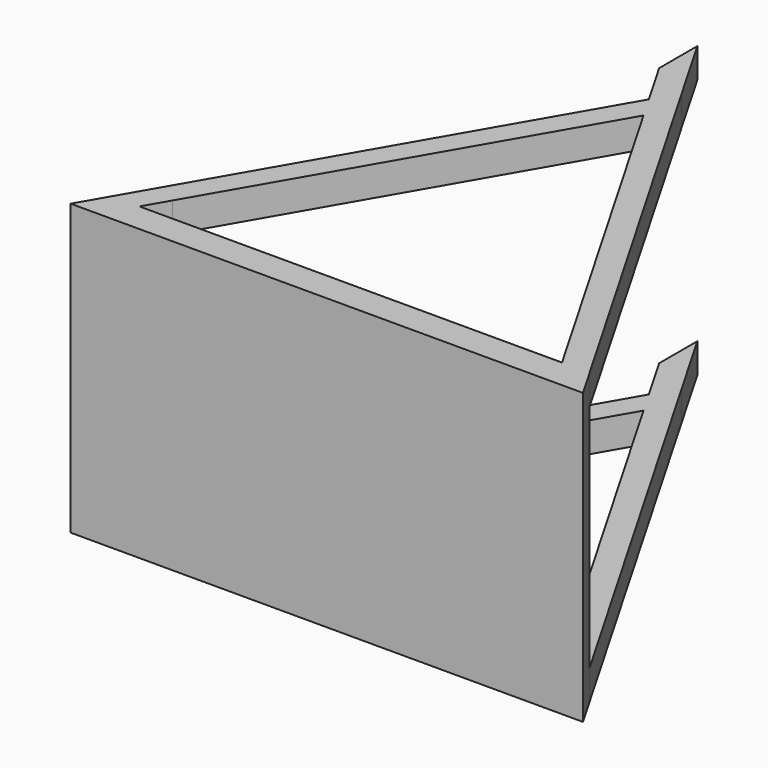
from build123d import *

# Parameters (mm, degrees)
F1_DEPTH = 97
F2_DEPTH = 87
F3_DEPTH = 10


with BuildPart() as f1:
    # F0 (on Top) → F1 (new body)
    with BuildSketch(Plane.XY):
        Polygon((-4.618802, 106.564065), (-80, -24), (-70.762396, -24), (-66.143594, -16), (0, 98.564065), (66.143594, -16), (70.762396, -24), (80, -24), (0, 114.564065), (-13.559861, 138.050432), (-13.559861, 122.050432), align=None)
        Polygon((-70.762396, -24), (-80, -24), (-85.773503, -34), (85.773503, -34), (80, -24), (70.762396, -24), align=None)
    extrude(amount=F1_DEPTH)

    # F0 (on Top) → F2 (cut)
    with BuildSketch(Plane.XY):
        Polygon((-4.618802, 106.564065), (-80, -24), (-70.762396, -24), (-66.143594, -16), (0, 98.564065), (66.143594, -16), (70.762396, -24), (80, -24), (0, 114.564065), (-13.559861, 138.050432), (-13.559861, 122.050432), align=None)
    extrude(amount=F2_DEPTH, mode=Mode.SUBTRACT)

    # F0 (on Top) → F3 (join)
    with BuildSketch(Plane.XY):
        Polygon((-4.618802, 106.564065), (-80, -24), (-70.762396, -24), (-66.143594, -16), (0, 98.564065), (66.143594, -16), (70.762396, -24), (80, -24), (0, 114.564065), (-13.559861, 138.050432), (-13.559861, 122.050432), align=None)
    extrude(amount=F3_DEPTH)


solid = f1.part
